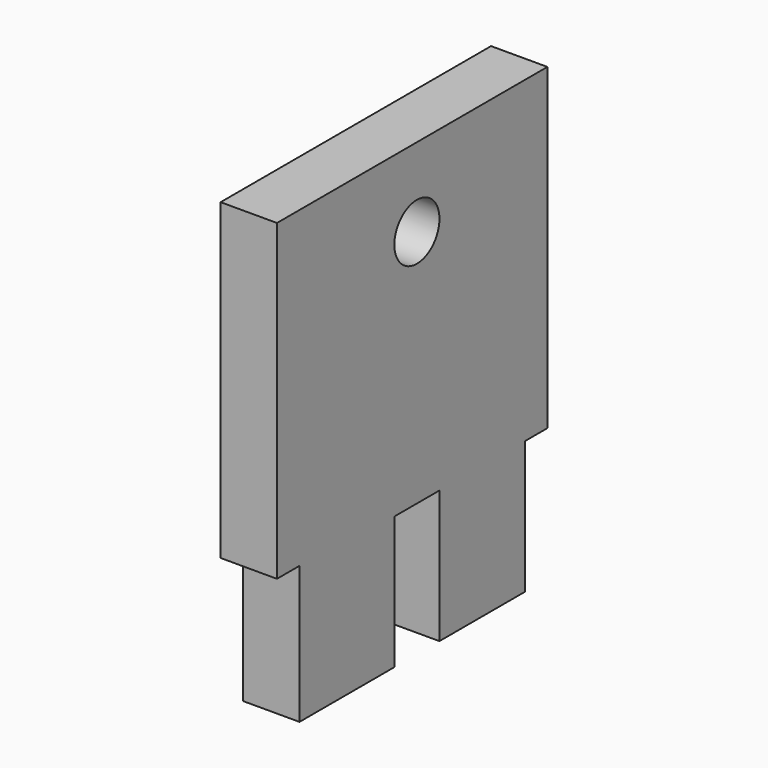
from build123d import *

# Parameters (mm, degrees)
F0_W     = 38.1
F0_H     = 50.8
F1_DEPTH = 6.35
F2_R     = 3.175
F3_DEPTH = 6.351
F4_W     = 3.175
F4_H     = 15.490544
F4_H_2   = 14.951406
F5_DEPTH = 6.351
F6_W     = 6.35
F6_H     = 14.951406
F7_DEPTH = 6.351


with BuildPart() as f1:
    # F0 (on Right) → F1 (new body)
    with BuildSketch(Plane.YZ):
        with Locations((-0.666162, 1.42497)):
            Rectangle(F0_W, F0_H)
    extrude(amount=F1_DEPTH)

    # F2 (on face) → F3 (cut, through all)
    with BuildSketch(Plane.YZ.offset(6.35)):
        with Locations((0, 17.93497)):
            Circle(F2_R)
    extrude(amount=-F3_DEPTH, mode=Mode.SUBTRACT)

    # F4 (on face) → F5 (cut, through all)
    with BuildSketch(Plane.YZ.offset(6.35)):
        with Locations((-18.128662, -16.229758)):
            Rectangle(F4_W, F4_H)
        with Locations((16.796338, -16.499327)):
            Rectangle(F4_W, F4_H_2)
    extrude(amount=-F5_DEPTH, mode=Mode.SUBTRACT)

    # F6 (on face) → F7 (cut, through all)
    with BuildSketch(Plane.YZ.offset(6.35)):
        with Locations((0, -16.499327)):
            Rectangle(F6_W, F6_H)
    extrude(amount=-F7_DEPTH, mode=Mode.SUBTRACT)


solid = f1.part
